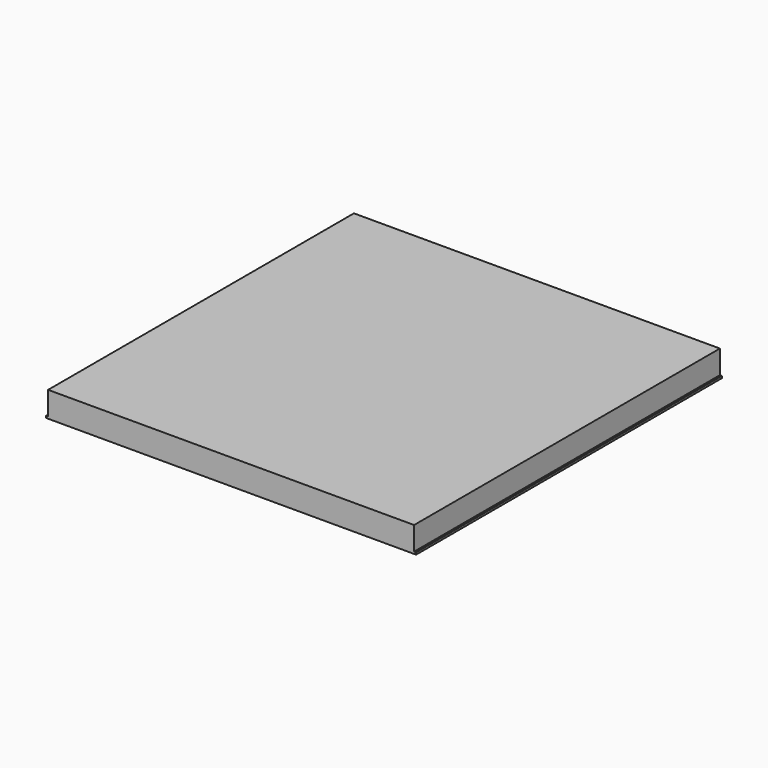
from build123d import *

# Parameters (mm, degrees)
F0_W     = 571.5
F0_H     = 596.9
F1_DEPTH = 36.576
F2_W     = 577.85
F2_H     = 596.9
F3_DEPTH = 3.175


with BuildPart() as f1:
    # F0 (on Top) → F1 (new body)
    with BuildSketch(Plane.XY):
        Rectangle(F0_W, F0_H)
    extrude(amount=F1_DEPTH)

    # F2 (on face) → F3 (join)
    with BuildSketch(Plane(origin=(0, 0, 0), x_dir=(1, 0, 0), z_dir=(0, 0, -1))):
        Rectangle(F2_W, F2_H)
    extrude(amount=F3_DEPTH)


solid = f1.part
